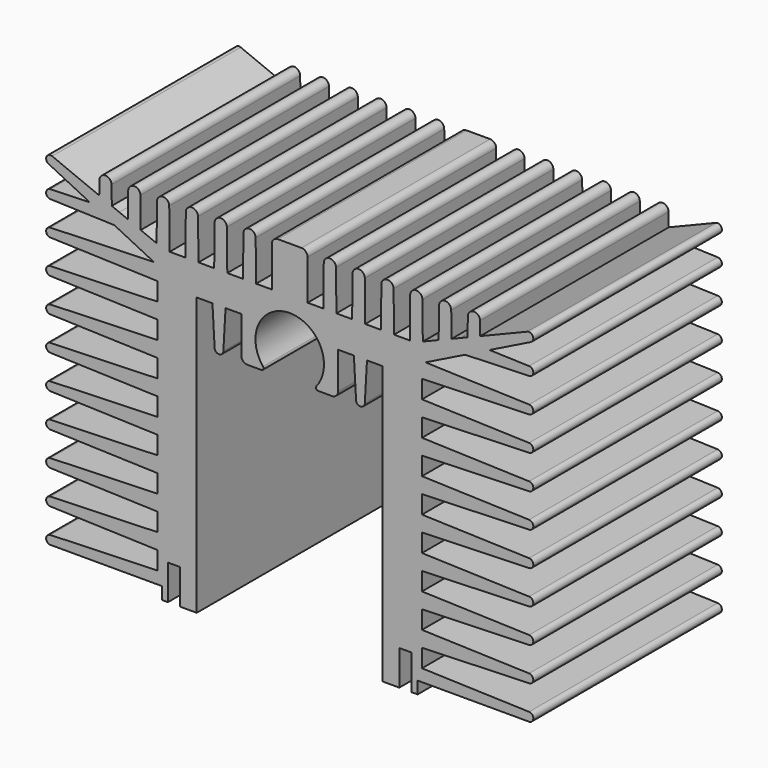
from build123d import *

# Parameters (mm, degrees)
PAD_DEPTH              = 13.5
PAD_DEPTH_BACK         = 13.5
PAD001_DEPTH           = 13.5
PAD001_DEPTH_BACK      = 13.5
PAD002_DEPTH           = 13.5
PAD002_DEPTH_BACK      = 13.5
LINEARPATTERN_COUNT    = 10
LINEARPATTERN_PITCH    = 3.873667
POCKET_DEPTH           = 13.501
POCKET_DEPTH_BACK      = 13.501
PAD003_DEPTH           = 13.5
PAD003_DEPTH_BACK      = 13.5
LINEARPATTERN001_COUNT = 6
LINEARPATTERN001_PITCH = 3.3
POCKET001_DEPTH        = 13.501
POCKET001_DEPTH_BACK   = 13.501
SKETCH007_W            = 2.05
SKETCH007_H            = 5.3
SKETCH007_W_2          = 5.55
SKETCH007_H_2          = 4.9
PAD004_DEPTH           = 13.5
PAD004_DEPTH_BACK      = 13.5
SKETCH008_R            = 3.925
SKETCH008_W            = 1.4
SKETCH008_H            = 4
POCKET002_DEPTH        = 13.501
POCKET002_DEPTH_BACK   = 13.501
FILLET_R               = 0.7
FILLET001_R            = 0.25
SKETCH011_W            = 12.766307
SKETCH011_H            = 1.400266
POCKET004_DEPTH        = 13.501
POCKET004_DEPTH_BACK   = 13.501


with BuildPart() as body:
    # Sketch001 → Pad (new body, two sides)
    with BuildSketch(Plane.XZ) as pad_sk:
        Polygon((0, 38.2), (15.15, 38.2), (15.15, 2.8), (10.65, 2.8), (10.65, 34.6), (0, 34.6), align=None)
    extrude(amount=PAD_DEPTH)
    extrude(pad_sk.sketch, amount=-PAD_DEPTH_BACK)

    # Sketch002 → Pad001 (join, two sides)
    with BuildSketch(Plane.XZ) as pad001_sk:
        with BuildLine():
            Line((14.327594, 38.2), (27.210917, 43.462869))
            ThreePointArc((27.621854, 42.551914), (27.855772, 43.205601), (27.210917, 43.462869))
            Line((27.621854, 42.551914), (15.15, 36.376912))
            Line((15.15, 36.376912), (15.15, 38.2))
            Line((14.327594, 38.2), (15.15, 38.2))
        make_face()
    extrude(amount=PAD001_DEPTH)
    extrude(pad001_sk.sketch, amount=-PAD001_DEPTH_BACK)

    # Sketch003 → Pad002 (join, two sides)
    with BuildSketch(Plane.XZ) as pad002_sk:
        with BuildLine():
            Line((27.416307, 5.199734), (15.15, 5.6))
            Line((15.15, 5.6), (15.15, 3.8))
            Line((15.15, 3.8), (27.416307, 4.200266))
            ThreePointArc((27.416307, 4.200266), (27.9, 4.7), (27.416307, 5.199734))
        make_face()
    pad002 = extrude(amount=PAD002_DEPTH) + extrude(pad002_sk.sketch, amount=-PAD002_DEPTH_BACK)

    # LinearPattern: Pad002 ×10
    with Locations(*[(0, 0, i * LINEARPATTERN_PITCH) for i in range(1, LINEARPATTERN_COUNT)]):
        add(pad002)

    # Sketch004 → Pocket (cut, two sides)
    with BuildSketch(Plane.XZ) as pocket_sk:
        Polygon((27.301813, 43.5), (14.327594, 43.5), (14.327594, 38.2), align=None)
    extrude(amount=-POCKET_DEPTH, mode=Mode.SUBTRACT)
    extrude(pocket_sk.sketch, amount=POCKET_DEPTH_BACK, mode=Mode.SUBTRACT)

    # Sketch005 → Pad003 (join, two sides)
    with BuildSketch(Plane.XZ) as pad003_sk:
        with BuildLine():
            Line((3.900041, 42.807602), (3.85, 38.2))
            Line((3.85, 38.2), (5.35, 38.2))
            Line((5.35, 38.2), (5.299959, 42.807602))
            ThreePointArc((5.299959, 42.807602), (4.6, 43.5), (3.900041, 42.807602))
        make_face()
    pad003 = extrude(amount=PAD003_DEPTH) + extrude(pad003_sk.sketch, amount=-PAD003_DEPTH_BACK)

    # LinearPattern001: Pad003 ×6
    with Locations(*[(i * LINEARPATTERN001_PITCH, 0, 0) for i in range(1, LINEARPATTERN001_COUNT)]):
        add(pad003)

    # Sketch006 → Pocket001 (cut, two sides)
    with BuildSketch(Plane.XZ) as pocket001_sk:
        Polygon((15.552506, 36.576199), (27.9, 36.576199), (27.9, 39.063266), (27.416307, 39.063266), (20.093067, 38.824299), align=None)
    extrude(amount=-POCKET001_DEPTH, mode=Mode.SUBTRACT)
    extrude(pocket001_sk.sketch, amount=POCKET001_DEPTH_BACK, mode=Mode.SUBTRACT)

    # Sketch007 → Pad004 (join, two sides)
    with BuildSketch(Plane.XZ) as pad004_sk:
        with Locations((1.025, 40.85)):
            Rectangle(SKETCH007_W, SKETCH007_H)
        with Locations((2.775, 32.15)):
            Rectangle(SKETCH007_W_2, SKETCH007_H_2)
        with BuildLine():
            Line((7.35, 34.6), (7.6008, 30.171727))
            ThreePointArc((7.6008, 30.171727), (8.1, 29.7), (8.5992, 30.171727))
            Line((8.5992, 30.171727), (8.85, 34.6))
            Line((8.85, 34.6), (7.35, 34.6))
        make_face()
    extrude(amount=PAD004_DEPTH)
    extrude(pad004_sk.sketch, amount=-PAD004_DEPTH_BACK)

    # Sketch008 → Pocket002 (cut, two sides)
    with BuildSketch(Plane.XZ) as pocket002_sk:
        with Locations((0, 32.575)):
            Circle(SKETCH008_R)
        with Locations((13.25, 4.8)):
            Rectangle(SKETCH008_W, SKETCH008_H)
    extrude(amount=-POCKET002_DEPTH, mode=Mode.SUBTRACT)
    extrude(pocket002_sk.sketch, amount=POCKET002_DEPTH_BACK, mode=Mode.SUBTRACT)

    # Fillet
    fillet_edges = [body.edges().sort_by_distance(p)[0] for p in [
        (2.05, 0, 43.5),
        (5.55, 0, 29.7),
    ]]
    fillet(fillet_edges, radius=FILLET_R)

    # Fillet001
    fillet001_edges = [body.edges().sort_by_distance(p)[0] for p in [
        (2.672078, 0, 29.7),
    ]]
    fillet(fillet001_edges, radius=FILLET001_R)

    # Sketch011 → Pocket004 (cut, two sides)
    with BuildSketch(Plane.XZ) as pocket004_sk:
        with Locations((21.033153, 3.500133)):
            Rectangle(SKETCH011_W, SKETCH011_H)
    extrude(amount=-POCKET004_DEPTH, mode=Mode.SUBTRACT)
    extrude(pocket004_sk.sketch, amount=POCKET004_DEPTH_BACK, mode=Mode.SUBTRACT)


with BuildPart() as part_mirroring:
    # Part__Mirroring: instance of Body
    add(body.part.mirror(Plane(origin=(0, 0, 0), x_dir=(0, -1, 0), z_dir=(1, 0, 0))))


with BuildPart() as fusion:
    # Fusion base: copy of Body
    add(body.part)

    # Fusion: union Part__Mirroring
    add(part_mirroring.part)


solid = fusion.part
